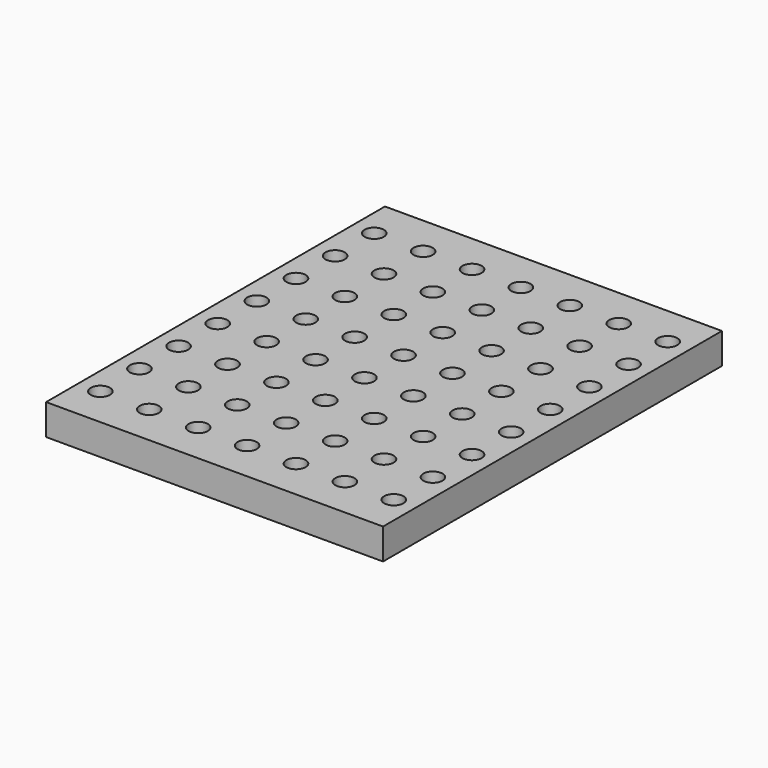
from build123d import *

# Parameters (mm, degrees)
SKETCH016_W                        = 17.5
SKETCH016_H                        = 22
PAD012_DEPTH                       = 1.6
SKETCH017_R                        = 0.5
POCKET003_DEPTH                    = 57.914764
SKETCH017_LINEARPATTERN001_2_R     = 0.5
POCKET003_LINEARPATTERN001_2_DEPTH = 57.914764
SKETCH017_LINEARPATTERN001_3_R     = 0.5
POCKET003_LINEARPATTERN001_3_DEPTH = 57.914764
SKETCH017_LINEARPATTERN001_4_R     = 0.5
POCKET003_LINEARPATTERN001_4_DEPTH = 57.914764
SKETCH017_LINEARPATTERN001_5_R     = 0.5
POCKET003_LINEARPATTERN001_5_DEPTH = 57.914764
SKETCH017_LINEARPATTERN001_6_R     = 0.5
POCKET003_LINEARPATTERN001_6_DEPTH = 57.914764
SKETCH017_LINEARPATTERN001_7_R     = 0.5
POCKET003_LINEARPATTERN001_7_DEPTH = 57.914764
LINEARPATTERN002_COUNT             = 8
LINEARPATTERN002_PITCH             = 2.54


with BuildPart() as part:
    # Sketch016 → Pad012 (new body)
    with BuildSketch(Plane.XY):
        Rectangle(SKETCH016_W, SKETCH016_H)
    extrude(amount=PAD012_DEPTH)

    # Sketch017 → Pocket003 (cut, through all)
    with BuildSketch(Plane.XY):
        with Locations((-7.62, -8.89)):
            Circle(SKETCH017_R)
    pocket003 = extrude(amount=POCKET003_DEPTH, mode=Mode.SUBTRACT)

    # Sketch017 LinearPattern001 2 → Pocket003 LinearPattern001 2 (cut, through all)
    with BuildSketch(Plane(origin=(2.54, 0, 0), x_dir=(1, 0, 0), z_dir=(0, 0, 1))):
        with Locations((-7.62, -8.89)):
            Circle(SKETCH017_LINEARPATTERN001_2_R)
    pocket003_linearpattern001_2 = extrude(amount=POCKET003_LINEARPATTERN001_2_DEPTH, mode=Mode.SUBTRACT)

    # Sketch017 LinearPattern001 3 → Pocket003 LinearPattern001 3 (cut, through all)
    with BuildSketch(Plane(origin=(5.08, 0, 0), x_dir=(1, 0, 0), z_dir=(0, 0, 1))):
        with Locations((-7.62, -8.89)):
            Circle(SKETCH017_LINEARPATTERN001_3_R)
    pocket003_linearpattern001_3 = extrude(amount=POCKET003_LINEARPATTERN001_3_DEPTH, mode=Mode.SUBTRACT)

    # Sketch017 LinearPattern001 4 → Pocket003 LinearPattern001 4 (cut, through all)
    with BuildSketch(Plane(origin=(7.62, 0, 0), x_dir=(1, 0, 0), z_dir=(0, 0, 1))):
        with Locations((-7.62, -8.89)):
            Circle(SKETCH017_LINEARPATTERN001_4_R)
    pocket003_linearpattern001_4 = extrude(amount=POCKET003_LINEARPATTERN001_4_DEPTH, mode=Mode.SUBTRACT)

    # Sketch017 LinearPattern001 5 → Pocket003 LinearPattern001 5 (cut, through all)
    with BuildSketch(Plane(origin=(10.16, 0, 0), x_dir=(1, 0, 0), z_dir=(0, 0, 1))):
        with Locations((-7.62, -8.89)):
            Circle(SKETCH017_LINEARPATTERN001_5_R)
    pocket003_linearpattern001_5 = extrude(amount=POCKET003_LINEARPATTERN001_5_DEPTH, mode=Mode.SUBTRACT)

    # Sketch017 LinearPattern001 6 → Pocket003 LinearPattern001 6 (cut, through all)
    with BuildSketch(Plane(origin=(12.7, 0, 0), x_dir=(1, 0, 0), z_dir=(0, 0, 1))):
        with Locations((-7.62, -8.89)):
            Circle(SKETCH017_LINEARPATTERN001_6_R)
    pocket003_linearpattern001_6 = extrude(amount=POCKET003_LINEARPATTERN001_6_DEPTH, mode=Mode.SUBTRACT)

    # Sketch017 LinearPattern001 7 → Pocket003 LinearPattern001 7 (cut, through all)
    with BuildSketch(Plane(origin=(15.24, 0, 0), x_dir=(1, 0, 0), z_dir=(0, 0, 1))):
        with Locations((-7.62, -8.89)):
            Circle(SKETCH017_LINEARPATTERN001_7_R)
    pocket003_linearpattern001_7 = extrude(amount=POCKET003_LINEARPATTERN001_7_DEPTH, mode=Mode.SUBTRACT)

    # LinearPattern002: Pocket003, Pocket003 LinearPattern001 2, Pocket003 LinearPattern001 3, Pocket003 LinearPattern001 4, Pocket003 LinearPattern001 5, Pocket003 LinearPattern001 6, Pocket003 LinearPattern001 7 ×8
    with Locations(*[(0, i * LINEARPATTERN002_PITCH, 0) for i in range(1, LINEARPATTERN002_COUNT)]):
        add(pocket003, mode=Mode.SUBTRACT)
        add(pocket003_linearpattern001_2, mode=Mode.SUBTRACT)
        add(pocket003_linearpattern001_3, mode=Mode.SUBTRACT)
        add(pocket003_linearpattern001_4, mode=Mode.SUBTRACT)
        add(pocket003_linearpattern001_5, mode=Mode.SUBTRACT)
        add(pocket003_linearpattern001_6, mode=Mode.SUBTRACT)
        add(pocket003_linearpattern001_7, mode=Mode.SUBTRACT)


solid = part.part
